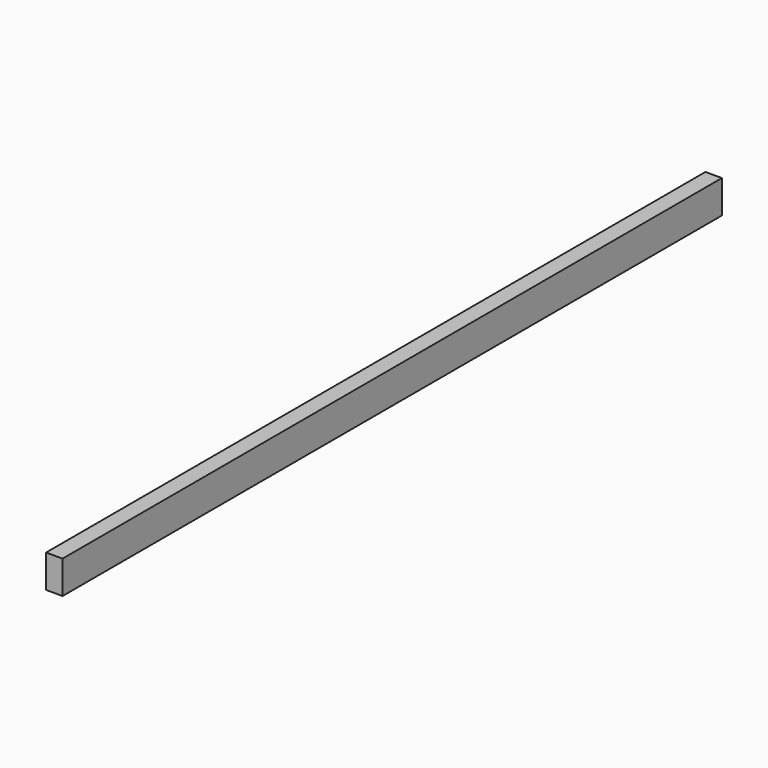
from build123d import *

# Parameters (mm, degrees)
F1_W     = 24
F1_H     = 48
F2_DEPTH = 1200


with BuildPart() as f2:
    # F1 (on Front) → F2 (new body)
    with BuildSketch(Plane.XZ):
        Rectangle(F1_W, F1_H)
        Rectangle(F1_W, F1_H)
    extrude(amount=F2_DEPTH)


solid = f2.part
